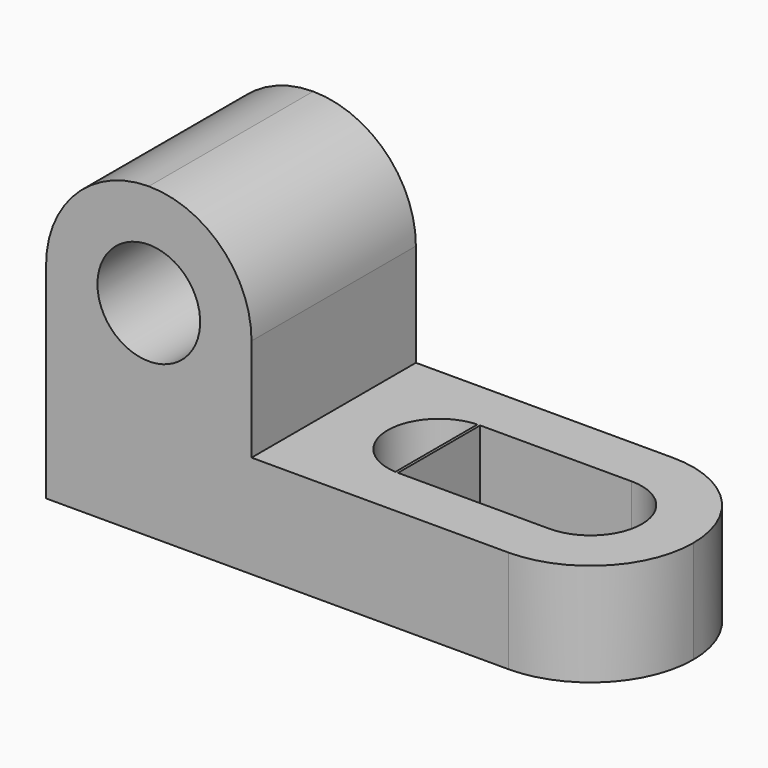
from build123d import *

# Parameters (mm, degrees)
F1_DEPTH = 25.4
F3_DEPTH = 25.401
F5_DEPTH = 12.701


with BuildPart() as f1:
    # F0 (on Front) → F1 (new body)
    with BuildSketch(Plane.XZ):
        Polygon((-38.4284471544, 38.1), (-38.4284471544, 0), (31.4215528456, 0), (31.4215528456, 12.7), (-13.0284471544, 12.7), (-13.0284471544, 38.1), align=None)
    extrude(amount=F1_DEPTH)

    # F2 (on face) → F3 (cut, through all)
    with BuildSketch(Plane.XZ.offset(25.4)):
        with BuildLine():
            ThreePointArc((-38.4284471544, 25.4), (-34.7087032754, 34.3802561211), (-25.7284471544, 38.1))
            Line((-25.7284471544, 38.1), (-38.4284471544, 38.1))
            Line((-38.4284471544, 38.1), (-38.4284471544, 25.4))
        make_face()
        with BuildLine():
            ThreePointArc((-25.7284471544, 38.1), (-16.7481910333, 34.3802561211), (-13.0284471544, 25.4))
            Line((-13.0284471544, 25.4), (-13.0284471544, 38.1))
            Line((-13.0284471544, 38.1), (-25.7284471544, 38.1))
        make_face()
        with BuildLine():
            Line((-32.0784471544, 25.4), (-19.3784471544, 25.4))
            ThreePointArc((-19.3784471544, 25.4), (-25.7284471544, 31.75), (-32.0784471544, 25.4))
        make_face()
        with BuildLine():
            ThreePointArc((-32.0784471544, 25.4), (-25.7284471544, 19.05), (-19.3784471544, 25.4))
            Line((-19.3784471544, 25.4), (-32.0784471544, 25.4))
        make_face()
    extrude(amount=-F3_DEPTH, mode=Mode.SUBTRACT)

    # F4 (on face) → F5 (cut, through all)
    with BuildSketch(Plane.XY.offset(12.7)):
        with BuildLine():
            ThreePointArc((6.35, -12.7), (4.4901280605, -8.2098719395), (0, -6.35))
            Line((0, -6.35), (0, -19.05))
            ThreePointArc((0, -19.05), (4.4901280605, -17.1901280605), (6.35, -12.7))
        make_face()
        with BuildLine():
            Line((-0.3284471544, -19.0415000171), (-0.3284471544, -6.3584999829))
            ThreePointArc((-0.3284471544, -6.3584999829), (-6.35, -12.7), (-0.3284471544, -19.0415000171))
        make_face()
        with BuildLine():
            Line((18.7215528456, -6.35), (0, -6.35))
            ThreePointArc((0, -6.35), (4.4901280605, -8.2098719395), (6.35, -12.7))
            ThreePointArc((6.35, -12.7), (4.4901280605, -17.1901280605), (0, -19.05))
            Line((0, -19.05), (18.7215528456, -19.05))
            ThreePointArc((18.7215528456, -19.05), (12.3715528456, -12.7), (18.7215528456, -6.35))
        make_face()
        with BuildLine():
            Line((18.7215528456, -19.05), (18.7215528456, -6.35))
            ThreePointArc((18.7215528456, -6.35), (12.3715528456, -12.7), (18.7215528456, -19.05))
        make_face()
        with BuildLine():
            ThreePointArc((25.0715528456, -12.7), (23.2116809062, -8.2098719395), (18.7215528456, -6.35))
            Line((18.7215528456, -6.35), (18.7215528456, -19.05))
            ThreePointArc((18.7215528456, -19.05), (23.2116809062, -17.1901280605), (25.0715528456, -12.7))
        make_face()
        with BuildLine():
            Line((31.4215528456, 0), (18.7215528456, 0))
            ThreePointArc((18.7215528456, 0), (27.7018089667, -3.7197438789), (31.4215528456, -12.7))
            Line((31.4215528456, -12.7), (31.4215528456, 0))
        make_face()
        with BuildLine():
            Line((31.4215528456, -25.4), (31.4215528456, -12.7))
            ThreePointArc((31.4215528456, -12.7), (27.7018089667, -21.6802561211), (18.7215528456, -25.4))
            Line((18.7215528456, -25.4), (31.4215528456, -25.4))
        make_face()
    extrude(amount=-F5_DEPTH, mode=Mode.SUBTRACT)


solid = f1.part
